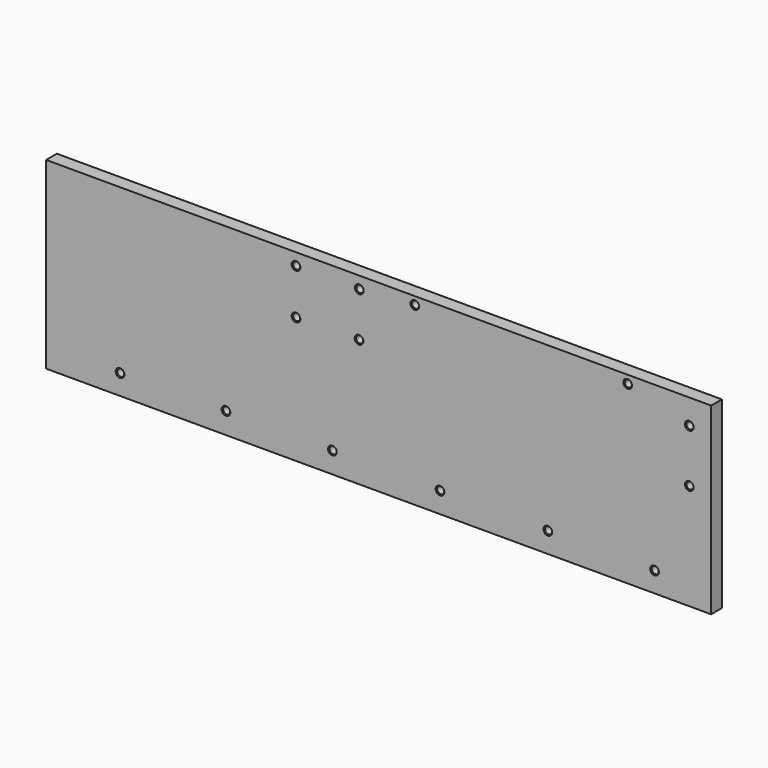
from build123d import *

# Parameters (mm, degrees)
F0_W           = 1187
F0_H           = 328
F1_DEPTH       = 24
F2_D           = 12.5
F2_CSINK_D     = 15.5
F2_CSINK_ANGLE = 90
F4_D           = 9.5
F4_DEPTH       = 19
F4_TIP         = 2.8540879404
F5_D           = 2.5
F5_DEPTH       = 12
F5_TIP         = 0.7510757738


with BuildPart() as f1:
    # F0 (on Front) → F1 (new body)
    with BuildSketch(Plane.XZ):
        with Locations((495.7006315604, 173.2381721629)):
            Rectangle(F0_W, F0_H)
    extrude(amount=-F1_DEPTH)

    # F2 (through all)
    with Locations(Plane.XZ):
        with Locations((348.2006315604, 315.7381721629), (461.2006315604, 315.7381721629), (348.2006315604, 234.7381721629), (460.7006315604, 236.2381721629), (560.2006315604, 323.2381721629), (940.2006315604, 322.7381721629), (1050.2006315604, 292.7381721629), (1050.2006315604, 198.2381721629), (988.2006315604, 45.2381721629), (797.7006315604, 45.7381721629), (605.2006315604, 46.2381721629), (413.2006315604, 46.7381721629), (223.2006315604, 47.2381721629), (34.2006315604, 45.2381721629)):
            CounterSinkHole(F2_D / 2, F2_CSINK_D / 2, counter_sink_angle=F2_CSINK_ANGLE)

    # F4
    with Locations(Plane(origin=(0, 24, 0), x_dir=(-1, 0, 0), z_dir=(0, 1, 0))):
        with Locations((-275.2006315604, 313.2381721629), (26.7993684396, 313.2381721629)):
            Hole(F4_D / 2, depth=F4_DEPTH)
            with Locations((0, 0, -(F4_DEPTH + F4_TIP / 2))):  # 118° drill point
                Cone(0, F4_D / 2, F4_TIP, mode=Mode.SUBTRACT)

    # F5
    with Locations(Plane(origin=(0, 24, 0), x_dir=(-1, 0, 0), z_dir=(0, 1, 0))):
        with Locations((-37.2006315604, 248.2381721629), (-37.2006315604, 224.7381721629)):
            Hole(F5_D / 2, depth=F5_DEPTH)
            with Locations((0, 0, -(F5_DEPTH + F5_TIP / 2))):  # 118° drill point
                Cone(0, F5_D / 2, F5_TIP, mode=Mode.SUBTRACT)


solid = f1.part
